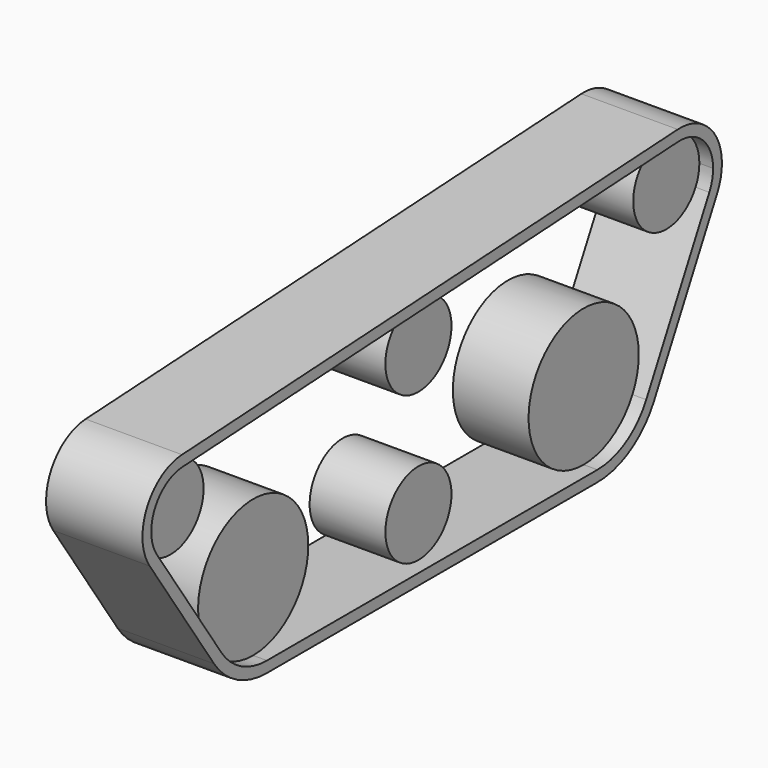
from build123d import *

# Parameters (mm, degrees)
F1_DEPTH      = 40
F1_DEPTH_BACK = 15
F2_DEPTH      = 50
F2_DEPTH_BACK = 20


with BuildPart() as f1:
    # F0 (on Right) → F1 (new body, two sides)
    with BuildSketch(Plane.YZ) as f1_sk:
        with BuildLine():
            ThreePointArc((0, -50), (35.355339, -35.355339), (50, 0))
            ThreePointArc((50, 0), (-14.673294, 47.798477), (-41.387778, -28.054444))
            ThreePointArc((-41.387778, -28.054444), (-23.423042, -44.174213), (0, -50))
        make_face()
        with BuildLine():
            ThreePointArc((-76.664101, 104.953811), (-101.884257, 88.313028), (-99.832667, 58.167333))
            ThreePointArc((-99.832667, 58.167333), (-66.196024, 46.320914), (-45, 75))
            ThreePointArc((-45, 75), (-54.383538, 96.793612), (-76.664101, 104.953811))
        make_face()
        with BuildLine():
            ThreePointArc((180, 87.5), (170.616462, 109.293612), (148.335899, 117.453811))
            ThreePointArc((148.335899, 117.453811), (129.383538, 65.706388), (180, 87.5))
        make_face()
        with BuildLine():
            ThreePointArc((350, 0), (264.644661, 35.355339), (300, -50))
            ThreePointArc((300, -50), (325.877833, -42.782447), (344.284681, -23.21351))
            ThreePointArc((344.284681, -23.21351), (348.550149, -11.953367), (350, 0))
        make_face()
        with BuildLine():
            ThreePointArc((405, 100), (395.616462, 121.793612), (373.335899, 129.953811))
            ThreePointArc((373.335899, 129.953811), (349.771213, 83.767061), (401.570808, 86.071894))
            ThreePointArc((401.570808, 86.071894), (404.13009, 92.82798), (405, 100))
        make_face()
        with BuildLine():
            ThreePointArc((180, -20), (128.786797, 1.213203), (150, -50))
            ThreePointArc((150, -50), (171.213203, -41.213203), (180, -20))
        make_face()
    extrude(amount=F1_DEPTH)
    extrude(f1_sk.sketch, amount=-F1_DEPTH_BACK)


with BuildPart() as f2:
    # F0 (on Right) → F2 (new body, two sides)
    with BuildSketch(Plane.YZ) as f2_sk:
        with BuildLine():
            Line((372.892139, 137.941493), (-77.107861, 112.941493))
            ThreePointArc((-77.107861, 112.941493), (-109.053392, 91.863169), (-106.454711, 53.678622))
            Line((-106.454711, 53.678622), (-48.009822, -32.543156))
            ThreePointArc((-48.009822, -32.543156), (-27.170729, -51.242087), (0, -58))
            Line((0, -58), (300, -58))
            ThreePointArc((300, -58), (330.018286, -49.627638), (351.370229, -26.927672))
            Line((351.370229, -26.927672), (408.656357, 82.357732))
            ThreePointArc((408.656357, 82.357732), (406.956463, 120.561723), (372.892139, 137.941493))
        make_face()
        with BuildLine():
            ThreePointArc((0, -50), (-23.423042, -44.174213), (-41.387778, -28.054444))
            Line((-41.387778, -28.054444), (-99.832667, 58.167333))
            ThreePointArc((-99.832667, 58.167333), (-101.884257, 88.313028), (-76.664101, 104.953811))
            Line((-76.664101, 104.953811), (148.335899, 117.453811))
            Line((148.335899, 117.453811), (373.335899, 129.953811))
            ThreePointArc((373.335899, 129.953811), (395.616462, 121.793612), (405, 100))
            ThreePointArc((405, 100), (404.13009, 92.82798), (401.570808, 86.071894))
            Line((401.570808, 86.071894), (344.284681, -23.21351))
            ThreePointArc((344.284681, -23.21351), (325.877833, -42.782447), (300, -50))
            Line((300, -50), (150, -50))
            Line((150, -50), (0, -50))
        make_face(mode=Mode.SUBTRACT)
    extrude(amount=F2_DEPTH)
    extrude(f2_sk.sketch, amount=-F2_DEPTH_BACK)


solid = Compound([f1.part, f2.part])
